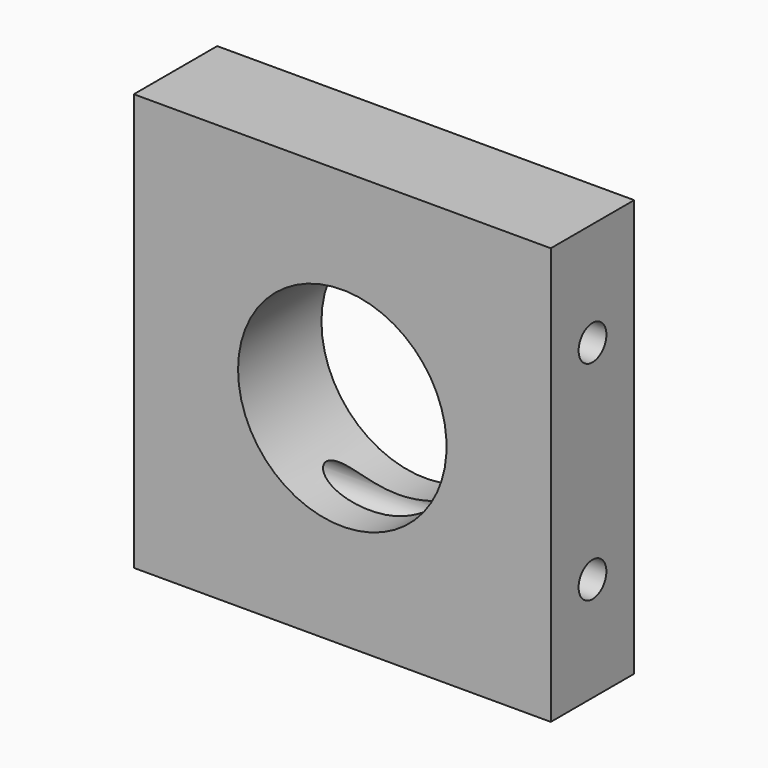
from build123d import *

# Parameters (mm, degrees)
F0_W     = 4.7625
F0_H     = 19.05
F0_R     = 0.79375
F1_DEPTH = 19.05
F2_R     = 4.7625
F3_DEPTH = 25.4


with BuildPart() as f1:
    # F0 (on Right) → F1 (new body)
    with BuildSketch(Plane.YZ):
        Rectangle(F0_W, F0_H)
        with Locations((0, -4.7625)):
            Circle(F0_R, mode=Mode.SUBTRACT)
        with Locations((0, 4.7625)):
            Circle(F0_R, mode=Mode.SUBTRACT)
    extrude(amount=F1_DEPTH)

    # F2 (on face) → F3 (cut)
    with BuildSketch(Plane(origin=(0, 2.38125, 0), x_dir=(-1, 0, 0), z_dir=(0, 1, 0))):
        with Locations((-9.525, 0)):
            Circle(F2_R)
    extrude(amount=-F3_DEPTH, mode=Mode.SUBTRACT)


solid = f1.part
